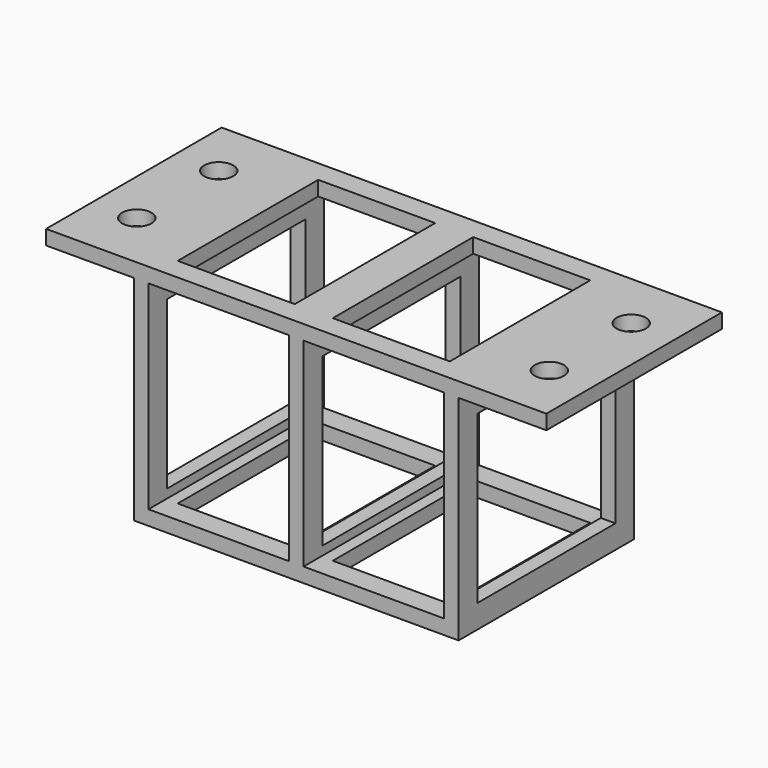
from build123d import *

# Parameters (mm, degrees)
F0_W          = 24
F0_H          = 34
F1_DEPTH      = 18.75
F1_DEPTH_BACK = 18.75
F2_R          = 2.5
F3_DEPTH      = 2.5
F2_W          = 6.75
F2_H          = 30
F2_W_2        = 13.25
F4_DEPTH      = 60
F5_W          = 29.5
F5_H          = 28.5
F6_DEPTH      = 76.15809
F6_DEPTH_BACK = 25


with BuildPart() as f1:
    # F0 (on Front) → F1 (new body, two sides)
    with BuildSketch(Plane.XZ) as f1_sk:
        Polygon((14.5, 19.5), (-14.5, 19.5), (-14.5, -19.5), (14.5, -19.5), (41, -19.5), (41, -17), (41, 17), (41, 19.5), align=None)
        Rectangle(F0_W, F0_H, mode=Mode.SUBTRACT)
        with Locations((26.5, 0)):
            Rectangle(F0_W, F0_H, mode=Mode.SUBTRACT)
    extrude(amount=F1_DEPTH)
    extrude(f1_sk.sketch, amount=-F1_DEPTH_BACK)

    # F2 (on face) → F3 (join)
    with BuildSketch(Plane.XY.offset(19.5)):
        Polygon((-29.5, 18.75), (-29.5, -18.75), (56, -18.75), (56, 18.75), (-14.5, 18.75), align=None)
        with Locations((-22, -8.75)):
            Circle(F2_R, mode=Mode.SUBTRACT)
        with Locations((48.5, -8.75)):
            Circle(F2_R, mode=Mode.SUBTRACT)
        with Locations((-22, 8.75)):
            Circle(F2_R, mode=Mode.SUBTRACT)
        Polygon((-10, -15), (-10, 15), (3.25, 15), (10, 15), (16.5, 15), (23.25, 15), (36.5, 15), (36.5, -15), (23.25, -15), (16.5, -15), (10, -15), (3.25, -15), align=None, mode=Mode.SUBTRACT)
        with Locations((48.5, 8.75)):
            Circle(F2_R, mode=Mode.SUBTRACT)
    extrude(amount=-F3_DEPTH)

    # F2 (on face) → F4 (cut)
    with BuildSketch(Plane.XY.offset(19.5)):
        with Locations((6.625, 0)):
            Rectangle(F2_W, F2_H)
        with Locations((-3.375, 0)):
            Rectangle(F2_W_2, F2_H)
        with Locations((19.875, 0)):
            Rectangle(F2_W, F2_H)
        with Locations((29.875, 0)):
            Rectangle(F2_W_2, F2_H)
    extrude(amount=-F4_DEPTH, mode=Mode.SUBTRACT)

    # F5 (on Right) → F6 (cut, two sides)
    with BuildSketch(Plane.YZ) as f6_sk:
        with Locations((0, -1.25)):
            Rectangle(F5_W, F5_H)
    extrude(amount=F6_DEPTH, mode=Mode.SUBTRACT)
    extrude(f6_sk.sketch, amount=-F6_DEPTH_BACK, mode=Mode.SUBTRACT)


solid = f1.part
